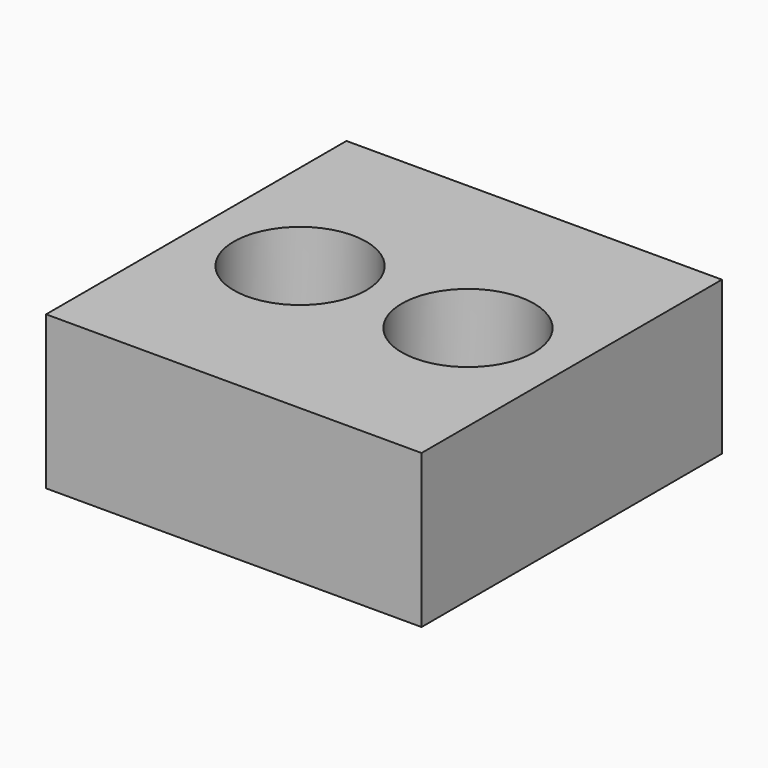
from build123d import *

# Parameters (mm, degrees)
F0_W     = 122.511253
F0_H     = 122.511253
F0_R     = 10.502035
F1_DEPTH = 25
F2_W     = 122.511253
F2_H     = 122.511253
F2_R     = 21.577326
F3_DEPTH = 25


with BuildPart() as f1:
    # F0 (on Top) → F1 (new body)
    with BuildSketch(Plane.XY):
        with Locations((61.255626, 61.255626)):
            Rectangle(F0_W, F0_H)
        with Locations((33.859052, 61.255626)):
            Circle(F0_R, mode=Mode.SUBTRACT)
        with Locations((88.652201, 61.255626)):
            Circle(F0_R, mode=Mode.SUBTRACT)
    extrude(amount=F1_DEPTH)

    # F2 (on face) → F3 (join)
    with BuildSketch(Plane.XY.offset(25)):
        with Locations((61.255626, 61.255626)):
            Rectangle(F2_W, F2_H)
        with Locations((33.859052, 61.255626)):
            Circle(F2_R, mode=Mode.SUBTRACT)
        with Locations((88.652201, 61.255626)):
            Circle(F2_R, mode=Mode.SUBTRACT)
    extrude(amount=F3_DEPTH)


solid = f1.part
